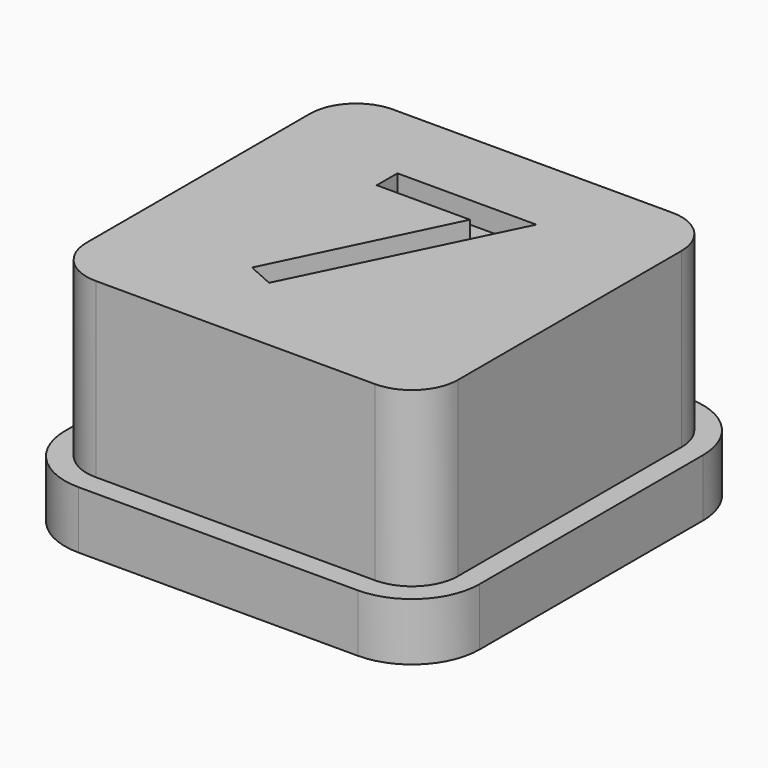
from build123d import *

# Parameters (mm, degrees)
F1_DEPTH = 2
F2_DEPTH = 8
F3_DEPTH = 7.25


with BuildPart() as f1:
    # F0 (on Top) → F1 (new body)
    with BuildSketch(Plane.XY):
        with BuildLine():
            Line((4.85, 7.2), (-4.85, 7.2))
            ThreePointArc((-4.85, 7.2), (-6.511701, 6.511701), (-7.2, 4.85))
            Line((-7.2, 4.85), (-7.2, -4.85))
            ThreePointArc((-7.2, -4.85), (-6.511701, -6.511701), (-4.85, -7.2))
            Line((-4.85, -7.2), (4.85, -7.2))
            ThreePointArc((4.85, -7.2), (6.511701, -6.511701), (7.2, -4.85))
            Line((7.2, -4.85), (7.2, 4.85))
            ThreePointArc((7.2, 4.85), (6.511701, 6.511701), (4.85, 7.2))
        make_face()
        with BuildLine():
            ThreePointArc((6.45, -4.85), (5.981371, -5.981371), (4.85, -6.45))
            Line((4.85, -6.45), (-4.85, -6.45))
            ThreePointArc((-4.85, -6.45), (-5.981371, -5.981371), (-6.45, -4.85))
            Line((-6.45, -4.85), (-6.45, 4.85))
            ThreePointArc((-6.45, 4.85), (-5.981371, 5.981371), (-4.85, 6.45))
            Line((-4.85, 6.45), (4.85, 6.45))
            ThreePointArc((4.85, 6.45), (5.981371, 5.981371), (6.45, 4.85))
            Line((6.45, 4.85), (6.45, -4.85))
        make_face(mode=Mode.SUBTRACT)
    extrude(amount=F1_DEPTH)

    # F0 (on Top) → F2 (join)
    with BuildSketch(Plane.XY):
        with BuildLine():
            Line((-4.85, -6.45), (4.85, -6.45))
            ThreePointArc((4.85, -6.45), (5.981371, -5.981371), (6.45, -4.85))
            Line((6.45, -4.85), (6.45, 4.85))
            ThreePointArc((6.45, 4.85), (5.981371, 5.981371), (4.85, 6.45))
            Line((4.85, 6.45), (-4.85, 6.45))
            ThreePointArc((-4.85, 6.45), (-5.981371, 5.981371), (-6.45, 4.85))
            Line((-6.45, 4.85), (-6.45, -4.85))
            ThreePointArc((-6.45, -4.85), (-5.981371, -5.981371), (-4.85, -6.45))
        make_face()
        Polygon((-1.11168, -3.598019), (-2.034495, -3.186817), (0.824795, 2.699112), (-2.412227, 2.699112), (-2.412227, 3.598019), (2.412227, 3.598019), align=None, mode=Mode.SUBTRACT)
    extrude(amount=F2_DEPTH)

    # F0 (on Top) → F3 (join)
    with BuildSketch(Plane.XY):
        Polygon((0.824795, 2.699112), (-2.034495, -3.186817), (-1.11168, -3.598019), (2.412227, 3.598019), (-2.412227, 3.598019), (-2.412227, 2.699112), align=None)
    extrude(amount=F3_DEPTH)


solid = f1.part
